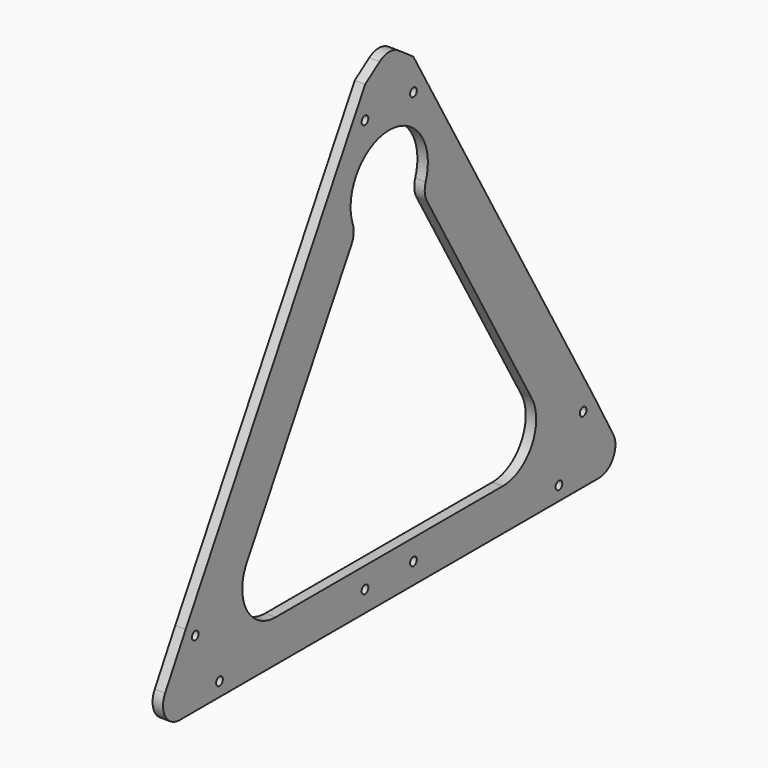
from build123d import *

# Parameters (mm, degrees)
F1_R     = 4
F2_DEPTH = 10
F3_R     = 20
F4_R     = 40


with BuildPart() as f2:
    # F1 (on Right) → F2 (new body)
    with BuildSketch(Plane.YZ):
        Polygon((-284.6176624298, -40), (-145, -40), (0, -40), (145, -40), (284.6176624298, -40), (243.3743673133, 33.5336461051), (28.7415579511, 405.2885768915), (0, 425.2763390541), (-28.7415579511, 405.2885768915), (-243.3743673133, 33.5336461051), align=None)
        with Locations((-202.9333580064, -26.6499444856)):
            Circle(F1_R, mode=Mode.SUBTRACT)
        with Locations((-231.9333580064, 23.5795289339)):
            Circle(F1_R, mode=Mode.SUBTRACT)
        with Locations((-29, -20)):
            Circle(F1_R, mode=Mode.SUBTRACT)
        with Locations((29, -20)):
            Circle(F1_R, mode=Mode.SUBTRACT)
        with Locations((202.9333580064, -26.6499444856)):
            Circle(F1_R, mode=Mode.SUBTRACT)
        with Locations((231.9333580064, 23.5795289339)):
            Circle(F1_R, mode=Mode.SUBTRACT)
        with BuildLine():
            Line((205, 0), (0, 0))
            Line((0, 0), (-205, 0))
            Line((-205, 0), (-200.0730971241, 8.5336461051))
            Line((-200.0730971241, 8.5336461051), (-40, 285.7883832489))
            ThreePointArc((-40, 285.7883832489), (-40, 331.976404784), (0, 355.0704155516))
            ThreePointArc((0, 355.0704155516), (40, 331.976404784), (40, 285.7883832489))
            Line((40, 285.7883832489), (200.0730971241, 8.5336461051))
            Line((200.0730971241, 8.5336461051), (205, 0))
        make_face(mode=Mode.SUBTRACT)
        with Locations((-29, 375.0704155516)):
            Circle(F1_R, mode=Mode.SUBTRACT)
        with Locations((29, 375.0704155516)):
            Circle(F1_R, mode=Mode.SUBTRACT)
    extrude(amount=F2_DEPTH)

    # F3
    f3_edges = [f2.edges().sort_by_distance(p)[0] for p in [
        (5, -284.617662, -40),
        (5, 284.617662, -40),
        (5, 0, 425.276339),
        (5, -40, 285.788383),
        (5, 40, 285.788383),
    ]]
    fillet(f3_edges, radius=F3_R)

    # F4
    f4_edges = [f2.edges().sort_by_distance(p)[0] for p in [
        (5, 205, 0),
        (5, -205, 0),
    ]]
    fillet(f4_edges, radius=F4_R)


solid = f2.part
